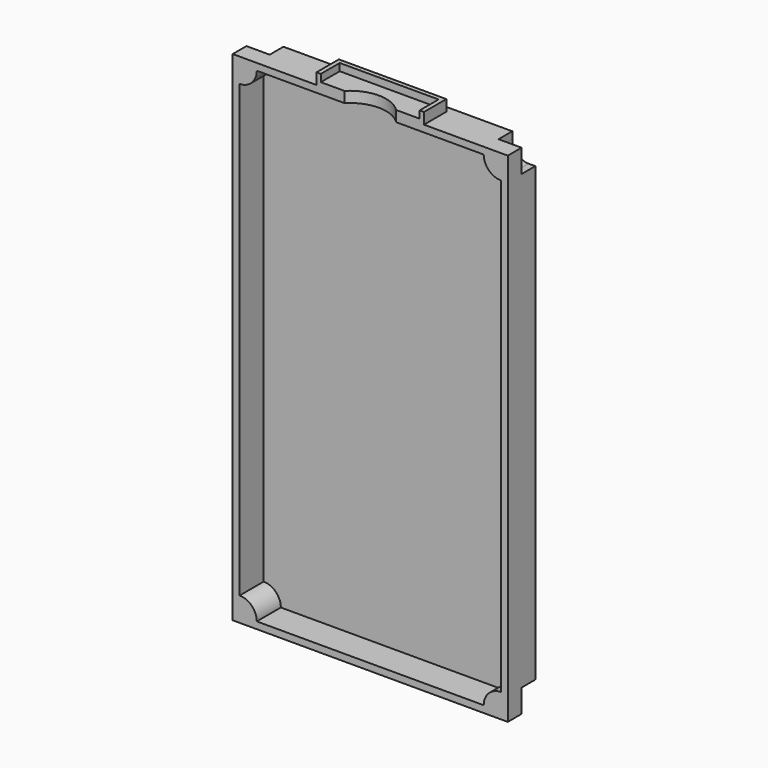
from build123d import *

# Parameters (mm, degrees)
F0_W      = 81.28
F0_H      = 147.32
F1_DEPTH  = 10.16
F2_W      = 77.216
F2_H      = 143.256
F3_DEPTH  = 8.89
F5_DEPTH  = 10.16
F6_W      = 31.75
F6_H      = 8.255
F7_DEPTH  = 3.302
F8_W      = 29.21
F8_H      = 6.985
F9_DEPTH  = 2.159
F11_DEPTH = 25.4
F13_DEPTH = 5.08


with BuildPart() as f1:
    # F0 (on Front) → F1 (new body)
    with BuildSketch(Plane.XZ):
        with Locations((-6.703687, 25.66678)):
            Rectangle(F0_W, F0_H)
    extrude(amount=F1_DEPTH)

    # F2 (on face) → F3 (cut)
    with BuildSketch(Plane.XZ.offset(10.16)):
        with Locations((-6.703687, 25.66678)):
            Rectangle(F2_W, F2_H)
    extrude(amount=-F3_DEPTH, mode=Mode.SUBTRACT)

    # F4 (on face) → F5 (join)
    with BuildSketch(Plane.XZ.offset(10.16)):
        with BuildLine():
            ThreePointArc((-45.311687, 92.21478), (-41.719585, 93.702678), (-40.231687, 97.29478))
            Line((-40.231687, 97.29478), (-45.311687, 97.29478))
            Line((-45.311687, 97.29478), (-45.311687, 92.21478))
        make_face()
        with BuildLine():
            Line((31.904313, 97.29478), (26.824313, 97.29478))
            ThreePointArc((26.824313, 97.29478), (28.31221, 93.702678), (31.904313, 92.21478))
            Line((31.904313, 92.21478), (31.904313, 97.29478))
        make_face()
        with BuildLine():
            ThreePointArc((-40.231687, -45.96122), (-41.719585, -42.369117), (-45.311687, -40.88122))
            Line((-45.311687, -40.88122), (-45.311687, -45.96122))
            Line((-45.311687, -45.96122), (-40.231687, -45.96122))
        make_face()
        with BuildLine():
            ThreePointArc((31.904313, -40.88122), (28.31221, -42.369117), (26.824313, -45.96122))
            Line((26.824313, -45.96122), (31.904313, -45.96122))
            Line((31.904313, -45.96122), (31.904313, -40.88122))
        make_face()
    extrude(amount=-F5_DEPTH)

    # F6 (on face) → F7 (join)
    with BuildSketch(Plane.XY.offset(99.32678)):
        with Locations((-6.703687, -6.0325)):
            Rectangle(F6_W, F6_H)
    extrude(amount=F7_DEPTH)

    # F8 (on face) → F9 (cut)
    with BuildSketch(Plane.XY.offset(102.62878)):
        with Locations((-6.703687, -6.6675)):
            Rectangle(F8_W, F8_H)
    extrude(amount=-F9_DEPTH, mode=Mode.SUBTRACT)

    # F10 (on face) → F11 (cut)
    with BuildSketch(Plane.XY.offset(100.46978)):
        with BuildLine():
            Line((-14.3501, -10.16), (0.942725, -10.16))
            ThreePointArc((0.942725, -10.16), (-6.703687, -6.985), (-14.3501, -10.16))
        make_face()
    extrude(amount=-F11_DEPTH, mode=Mode.SUBTRACT)

    # F12 (on face) → F13 (cut)
    with BuildSketch(Plane(origin=(0, 0, 0), x_dir=(-1, 0, 0), z_dir=(0, 1, 0))):
        with BuildLine():
            ThreePointArc((-31.968985, 92.467752), (-28.556487, 93.881254), (-27.142985, 97.293752))
            Line((-27.142985, 97.293752), (-27.142985, 99.32678))
            Line((-27.142985, 99.32678), (-33.936313, 99.32678))
            Line((-33.936313, 99.32678), (-33.936313, 92.467752))
            Line((-33.936313, 92.467752), (-31.968985, 92.467752))
        make_face()
        with BuildLine():
            Line((40.479984, 99.32678), (40.479984, 97.294772))
            ThreePointArc((40.479984, 97.294772), (41.893487, 93.882275), (45.305984, 92.468772))
            Line((45.305984, 92.468772), (47.343687, 92.468772))
            Line((47.343687, 92.468772), (47.343687, 99.32678))
            Line((47.343687, 99.32678), (40.479984, 99.32678))
        make_face()
        with BuildLine():
            ThreePointArc((-27.082259, -45.961216), (-28.495762, -42.548718), (-31.908259, -41.135216))
            Line((-31.908259, -41.135216), (-33.936313, -41.135216))
            Line((-33.936313, -41.135216), (-33.936313, -47.99322))
            Line((-33.936313, -47.99322), (-27.082259, -47.99322))
            Line((-27.082259, -47.99322), (-27.082259, -45.961216))
        make_face()
        with BuildLine():
            Line((47.343687, -41.20655), (45.310436, -41.20655))
            ThreePointArc((45.310436, -41.20655), (41.897938, -42.620053), (40.484436, -46.03255))
            Line((40.484436, -46.03255), (40.484436, -47.99322))
            Line((40.484436, -47.99322), (47.343687, -47.99322))
            Line((47.343687, -47.99322), (47.343687, -41.20655))
        make_face()
    extrude(amount=-F13_DEPTH, mode=Mode.SUBTRACT)


solid = f1.part
